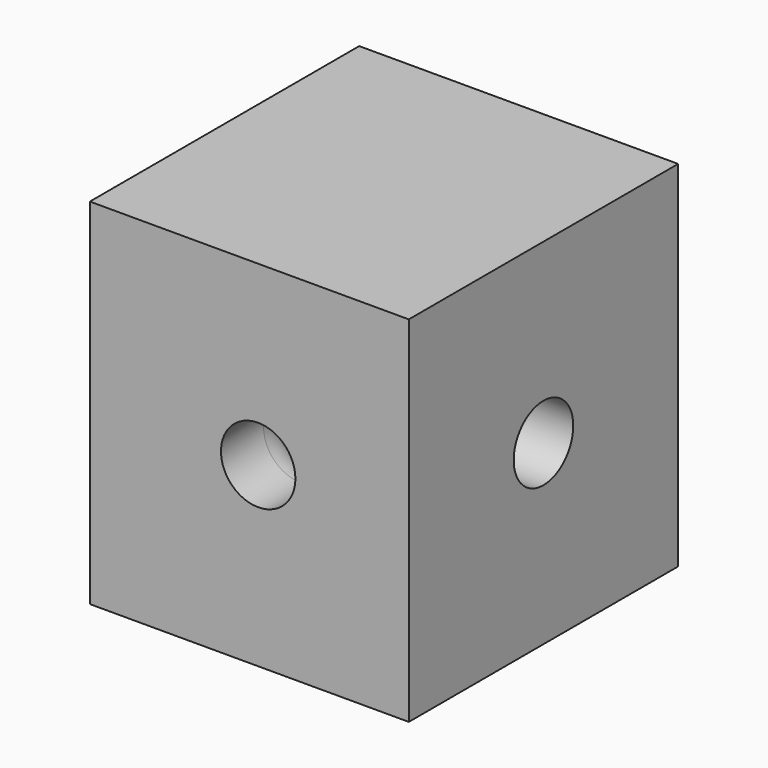
from build123d import *

# Parameters (mm, degrees)
F0_W     = 18
F0_H     = 19
F1_DEPTH = 20
F3_R     = 6.1
F4_DEPTH = 13
F2_R     = 2.1
F5_DEPTH = 18
F6_R     = 3
F8_DEPTH = 25


with BuildPart() as f1:
    # F0 (on Top) → F1 (new body)
    with BuildSketch(Plane.XY):
        Rectangle(F0_W, F0_H)
    extrude(amount=F1_DEPTH)

    # F3 (on face) → F4 (cut)
    with BuildSketch(Plane(origin=(0, 9.5, 0), x_dir=(-1, 0, 0), z_dir=(0, 1, 0))):
        with Locations((0, 10)):
            Circle(F3_R)
    extrude(amount=-F4_DEPTH, mode=Mode.SUBTRACT)

    # F2 (on face) → F5 (cut)
    with BuildSketch(Plane.XZ.offset(9.5)):
        with Locations((0.5, 10)):
            Circle(F2_R)
    extrude(amount=-F5_DEPTH, mode=Mode.SUBTRACT)

    # F6
    f6_edges = [f1.edges().sort_by_distance(p)[0] for p in [
        (-1.6, -3.5, 10),
    ]]
    fillet(f6_edges, radius=F6_R)

    # F7 (on face) → F8 (cut)
    with BuildSketch(Plane(origin=(-9, 0, 0), x_dir=(0, -1, 0), z_dir=(-1, 0, 0))):
        with BuildLine():
            Line((-2.1, 10), (2.1, 10))
            ThreePointArc((2.1, 10), (0, 12.1), (-2.1, 10))
        make_face()
        with BuildLine():
            ThreePointArc((-2.1, 10), (0, 7.9), (2.1, 10))
            Line((2.1, 10), (-2.1, 10))
        make_face()
    extrude(amount=-F8_DEPTH, mode=Mode.SUBTRACT)


solid = f1.part
